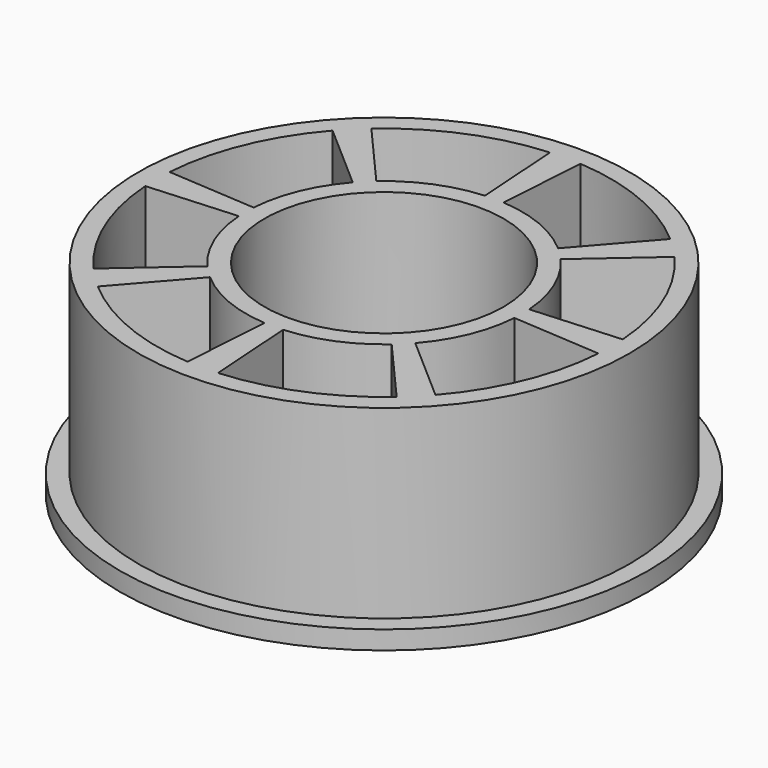
from build123d import *

# Parameters (mm, degrees)
F0_R     = 26.5
F0_R_2   = 12.9
F1_DEPTH = 22
F0_R_3   = 28.5
F2_DEPTH = 2
F4_DEPTH = 22
F5_COUNT = 8


with BuildPart() as f1:
    # F0 (on Top) → F1 (new body)
    with BuildSketch(Plane.XY):
        Circle(F0_R)
        Circle(F0_R_2, mode=Mode.SUBTRACT)
    extrude(amount=F1_DEPTH)

    # F0 (on Top) → F2 (join)
    with BuildSketch(Plane.XY):
        Circle(F0_R_3)
        Circle(F0_R, mode=Mode.SUBTRACT)
    extrude(amount=F2_DEPTH)


with BuildPart() as f4:
    # F3 (on face) → F4 (new body, through all)
    with BuildSketch(Plane.XY.offset(22)):
        with BuildLine():
            ThreePointArc((1.644295, -24.44476), (9.375744, -22.635049), (16.122363, -18.447748))
            Line((16.122363, -18.447748), (9.805029, -11.219243))
            ThreePointArc((9.805029, -11.219243), (5.701983, -13.765805), (1, -14.866405))
            Line((1, -14.866405), (1.644295, -24.44476))
        make_face()
    extrude(amount=-F4_DEPTH)


with BuildPart() as f5_1:
    # F5: instance of F4
    add(f4.part.rotate(Axis((0, 0, 0), (0, 0, -1)), 1 * 360 / F5_COUNT))


with BuildPart() as f5_2:
    # F5: instance of F4
    add(f4.part.rotate(Axis((0, 0, 0), (0, 0, -1)), 2 * 360 / F5_COUNT))


with BuildPart() as f5_3:
    # F5: instance of F4
    add(f4.part.rotate(Axis((0, 0, 0), (0, 0, -1)), 3 * 360 / F5_COUNT))


with BuildPart() as f5_4:
    # F5: instance of F4
    add(f4.part.rotate(Axis((0, 0, 0), (0, 0, -1)), 4 * 360 / F5_COUNT))


with BuildPart() as f5_5:
    # F5: instance of F4
    add(f4.part.rotate(Axis((0, 0, 0), (0, 0, -1)), 5 * 360 / F5_COUNT))


with BuildPart() as f5_6:
    # F5: instance of F4
    add(f4.part.rotate(Axis((0, 0, 0), (0, 0, -1)), 6 * 360 / F5_COUNT))


with BuildPart() as f5_7:
    # F5: instance of F4
    add(f4.part.rotate(Axis((0, 0, 0), (0, 0, -1)), 7 * 360 / F5_COUNT))


with BuildPart() as f1_1:
    add(f1.part)

    # F6: cut F4, F5_7, F5_6, F5_5, F5_4, F5_3, F5_2, F5_1
    add(f4.part, mode=Mode.SUBTRACT)
    add(f5_7.part, mode=Mode.SUBTRACT)
    add(f5_6.part, mode=Mode.SUBTRACT)
    add(f5_5.part, mode=Mode.SUBTRACT)
    add(f5_4.part, mode=Mode.SUBTRACT)
    add(f5_3.part, mode=Mode.SUBTRACT)
    add(f5_2.part, mode=Mode.SUBTRACT)
    add(f5_1.part, mode=Mode.SUBTRACT)


solid = f1_1.part
